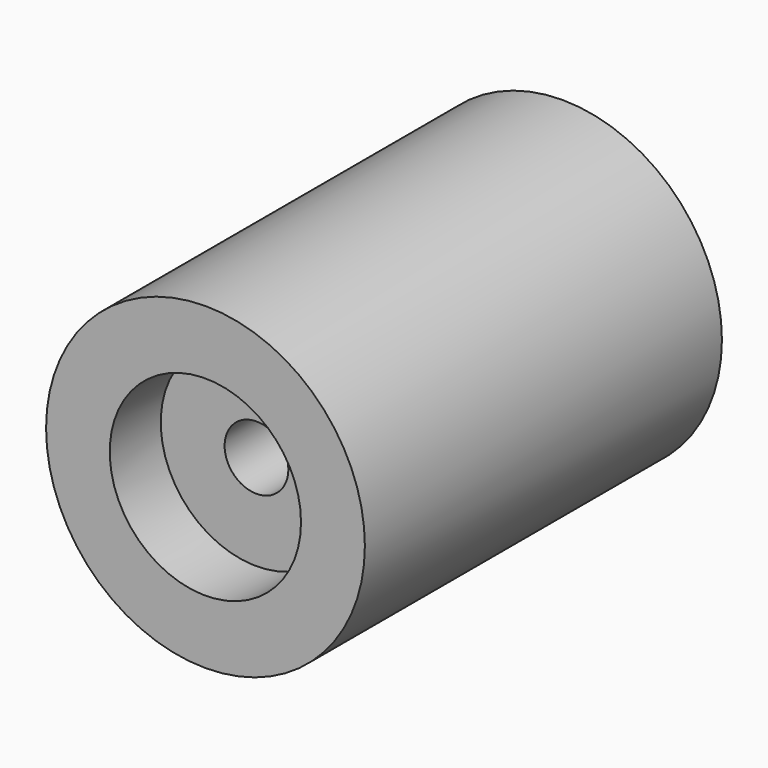
from build123d import *

# Parameters (mm, degrees)
F0_R     = 10
F1_DEPTH = 40
F0_R_2   = 30
F2_DEPTH = 120
F0_R_3   = 50
F3_DEPTH = 140


with BuildPart() as f1:
    # F0 (on Front) → F1 (new body)
    with BuildSketch(Plane.XZ):
        with Locations((0.03067, 0)):
            Circle(F0_R)
    extrude(amount=F1_DEPTH)

    # F0 (on Front) → F2 (join)
    with BuildSketch(Plane.XZ):
        Circle(F0_R_2)
        with Locations((0.03067, 0)):
            Circle(F0_R, mode=Mode.SUBTRACT)
    extrude(amount=F2_DEPTH)

    # F0 (on Front) → F3 (join)
    with BuildSketch(Plane.XZ):
        with Locations((0.03067, 0)):
            Circle(F0_R_3)
        Circle(F0_R_2, mode=Mode.SUBTRACT)
    extrude(amount=F3_DEPTH)


solid = f1.part
